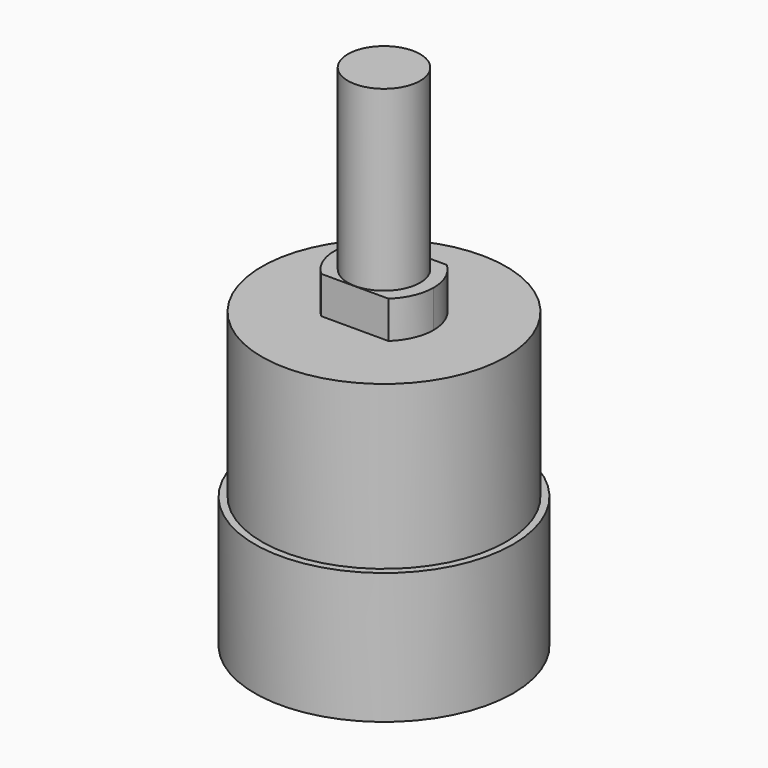
from build123d import *

# Parameters (mm, degrees)
F1_START = 11
F0_R     = 1.93
F1_DEPTH = 16.17
F2_DEPTH = 17.68
F0_R_2   = 6.525
F3_DEPTH = 15.69
F0_R_3   = 6.9
F4_DEPTH = 7


with BuildPart() as f1:
    # F0 (on Top) → F1 (new body)
    with BuildSketch(Plane.XY.offset(F1_START)):
        Circle(F0_R)
    extrude(amount=F1_DEPTH)

    # F0 (on Top) → F2 (join)
    with BuildSketch(Plane.XY):
        with BuildLine():
            ThreePointArc((1.7944358445, -1.95), (2.4267009486, -1.0647171014), (2.65, 0))
            ThreePointArc((2.65, 0), (2.4267009486, 1.0647171014), (1.7944358445, 1.95))
            Line((1.7944358445, 1.95), (-1.7944358445, 1.95))
            ThreePointArc((-1.7944358445, 1.95), (-2.65, 0), (-1.7944358445, -1.95))
            Line((-1.7944358445, -1.95), (1.7944358445, -1.95))
        make_face()
        Circle(F0_R, mode=Mode.SUBTRACT)
    extrude(amount=F2_DEPTH)

    # F0 (on Top) → F3 (join)
    with BuildSketch(Plane.XY):
        Circle(F0_R_2)
        with BuildLine():
            ThreePointArc((1.7944358445, 1.95), (2.4267009486, 1.0647171014), (2.65, 0))
            ThreePointArc((2.65, 0), (2.4267009486, -1.0647171014), (1.7944358445, -1.95))
            ThreePointArc((1.7944358445, -1.95), (0, -2.65), (-1.7944358445, -1.95))
            ThreePointArc((-1.7944358445, -1.95), (-2.65, 0), (-1.7944358445, 1.95))
            ThreePointArc((-1.7944358445, 1.95), (0, 2.65), (1.7944358445, 1.95))
        make_face(mode=Mode.SUBTRACT)
        with BuildLine():
            ThreePointArc((-1.7944358445, -1.95), (0, -2.65), (1.7944358445, -1.95))
            Line((1.7944358445, -1.95), (-1.7944358445, -1.95))
        make_face()
        with BuildLine():
            Line((-1.7944358445, 1.95), (1.7944358445, 1.95))
            ThreePointArc((1.7944358445, 1.95), (0, 2.65), (-1.7944358445, 1.95))
        make_face()
    extrude(amount=F3_DEPTH)

    # F0 (on Top) → F4 (join)
    with BuildSketch(Plane.XY):
        Circle(F0_R_3)
        Circle(F0_R_2, mode=Mode.SUBTRACT)
    extrude(amount=F4_DEPTH)


solid = f1.part
